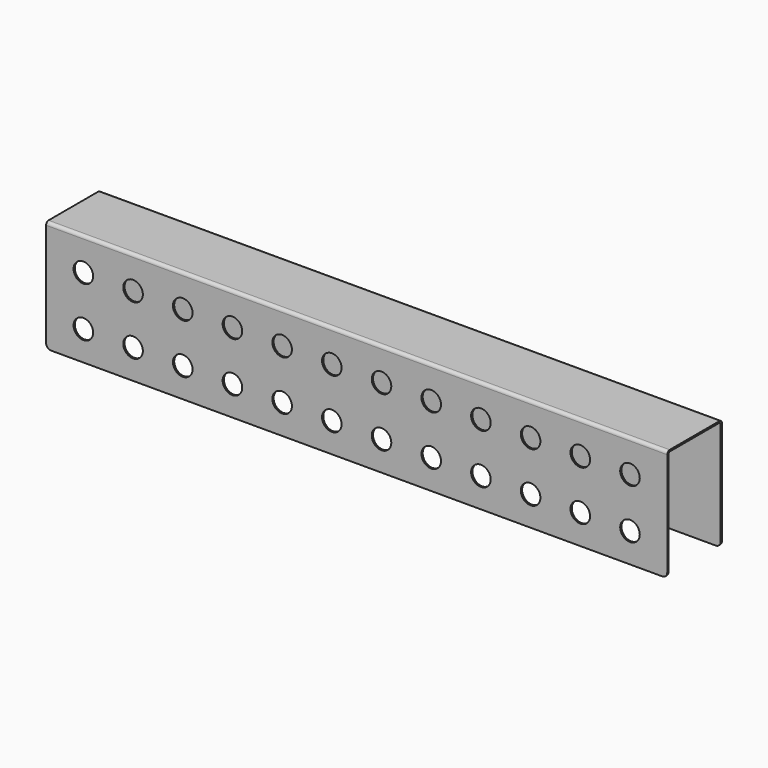
from build123d import *

# Parameters (mm, degrees)
F1_DEPTH = 317.5
F2_R     = 9.9949
F3_DEPTH = 25.4
F4_R     = 1.5
F5_DEPTH = 25.4
F6_R     = 5.08


with BuildPart() as f1:
    # F0 (on Right) → F1 (new body, symmetric)
    with BuildSketch(Plane.YZ):
        with BuildLine():
            Line((31.75, 0), (-31.75, 0))
            ThreePointArc((-31.75, 0), (-33.995064, -0.929936), (-34.925, -3.175))
            Line((-34.925, -3.175), (-34.925, -114.3))
            Line((-34.925, -114.3), (-33.3375, -114.3))
            Line((-33.3375, -114.3), (-33.3375, -3.175))
            ThreePointArc((-33.3375, -3.175), (-32.872532, -2.052468), (-31.75, -1.5875))
            Line((-31.75, -1.5875), (31.75, -1.5875))
            ThreePointArc((31.75, -1.5875), (32.872532, -2.052468), (33.3375, -3.175))
            Line((33.3375, -3.175), (33.3375, -114.3))
            Line((33.3375, -114.3), (34.925, -114.3))
            Line((34.925, -114.3), (34.925, -3.175))
            ThreePointArc((34.925, -3.175), (33.995064, -0.929936), (31.75, 0))
        make_face()
    extrude(amount=F1_DEPTH, both=True)

    # F2 (on face) → F3 (cut)
    with BuildSketch(Plane.XZ.offset(34.925)):
        with Locations((-279.4, -33.3375)):
            Circle(F2_R)
        with Locations((-279.4, -84.1375)):
            Circle(F2_R)
        with Locations((-228.6, -33.3375)):
            Circle(F2_R)
        with Locations((-228.6, -84.1375)):
            Circle(F2_R)
        with Locations((-177.8, -33.3375)):
            Circle(F2_R)
        with Locations((-177.8, -84.1375)):
            Circle(F2_R)
        with Locations((-127, -33.3375)):
            Circle(F2_R)
        with Locations((-127, -84.1375)):
            Circle(F2_R)
        with Locations((-76.2, -33.3375)):
            Circle(F2_R)
        with Locations((-76.2, -84.1375)):
            Circle(F2_R)
        with Locations((-25.4, -33.3375)):
            Circle(F2_R)
        with Locations((-25.4, -84.1375)):
            Circle(F2_R)
        with Locations((25.4, -33.3375)):
            Circle(F2_R)
        with Locations((25.4, -84.1375)):
            Circle(F2_R)
        with Locations((76.2, -33.3375)):
            Circle(F2_R)
        with Locations((76.2, -84.1375)):
            Circle(F2_R)
        with Locations((127, -33.3375)):
            Circle(F2_R)
        with Locations((127, -84.1375)):
            Circle(F2_R)
        with Locations((177.8, -33.3375)):
            Circle(F2_R)
        with Locations((177.8, -84.1375)):
            Circle(F2_R)
        with Locations((228.6, -33.3375)):
            Circle(F2_R)
        with Locations((228.6, -84.1375)):
            Circle(F2_R)
        with Locations((279.4, -33.3375)):
            Circle(F2_R)
        with Locations((279.4, -84.1375)):
            Circle(F2_R)
    extrude(amount=-F3_DEPTH, mode=Mode.SUBTRACT)

    # F4 (on face) → F5 (cut)
    with BuildSketch(Plane(origin=(0, 34.925, 0), x_dir=(-1, 0, 0), z_dir=(0, 1, 0))):
        with Locations((-23, -15.7375)):
            Circle(F4_R)
        with Locations((-23, -101.7375)):
            Circle(F4_R)
        with Locations((23, -15.7375)):
            Circle(F4_R)
        with Locations((23, -101.7375)):
            Circle(F4_R)
        with Locations((226.2, -101.7375)):
            Circle(F4_R)
        with Locations((180.2, -101.7375)):
            Circle(F4_R)
        with Locations((226.2, -15.7375)):
            Circle(F4_R)
        with Locations((180.2, -15.7375)):
            Circle(F4_R)
        with Locations((-226.2, -15.7375)):
            Circle(F4_R)
        with Locations((-180.2, -15.7375)):
            Circle(F4_R)
        with Locations((-180.2, -101.7375)):
            Circle(F4_R)
        with Locations((-226.2, -101.7375)):
            Circle(F4_R)
    extrude(amount=-F5_DEPTH, mode=Mode.SUBTRACT)

    # F6
    f6_edges = [f1.edges().sort_by_distance(p)[0] for p in [
        (-317.5, -34.13125, -114.3),
        (-317.5, 34.13125, -114.3),
        (317.5, -34.13125, -114.3),
        (317.5, 34.13125, -114.3),
    ]]
    fillet(f6_edges, radius=F6_R)


solid = f1.part
